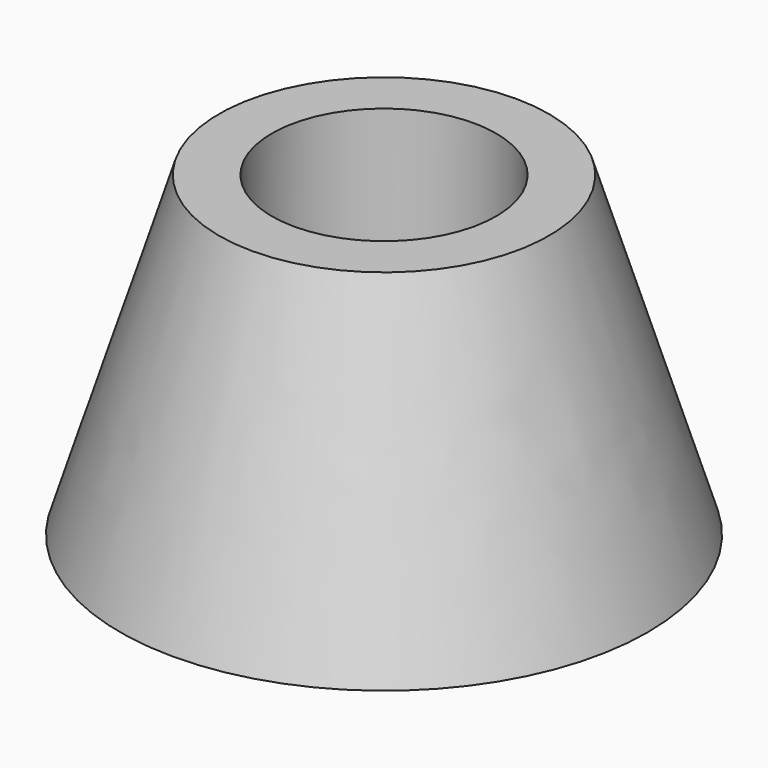
from build123d import *


with BuildPart() as f1:
    # F0 (on Right) → F1 (revolve)
    with BuildSketch(Plane.YZ):
        with BuildLine():
            Line((0.872311, -4.933605), (-3.377689, -4.933605))
            Line((-3.377689, -4.933605), (-3.377689, 5.066395))
            Line((-3.377689, 5.066395), (-5.377689, 5.066395))
            add(Edge.make_bspline(
                [(-5.377689, 5.066395), (-6.627689, 1.066395), (-7.877689, -2.933605), (-9.127689, -6.933605)],
                knots=[0, 0, 0, 0, 12.572291, 12.572291, 12.572291, 12.572291], degree=3))
            Line((-9.127689, -6.933605), (0.872311, -6.933605))
            Line((0.872311, -6.933605), (0.872311, -4.933605))
        make_face()
    revolve(axis=Axis((0, 0.872311, -5.933605), (0, 0, -1)))


solid = f1.part
